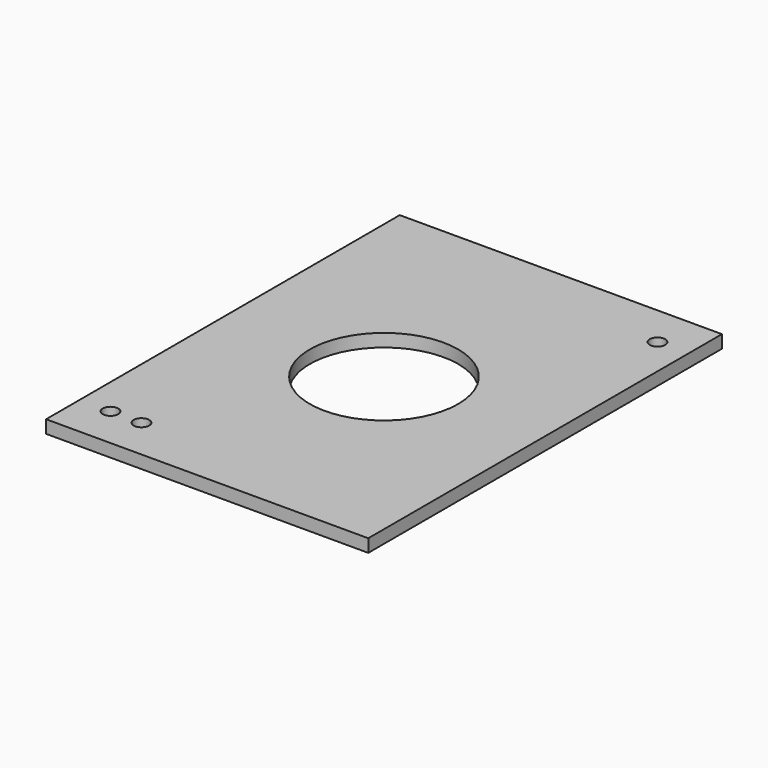
from build123d import *

# Parameters (mm, degrees)
F0_W     = 250
F0_H     = 343
F0_R     = 6
F0_R_2   = 57.5
F1_DEPTH = 10


with BuildPart() as f1:
    # F0 (on Top) → F1 (new body)
    with BuildSketch(Plane.XY):
        with Locations((125, 171.5)):
            Rectangle(F0_W, F0_H)
        with Locations((24, 32.5)):
            Circle(F0_R, mode=Mode.SUBTRACT)
        with Locations((48, 32.5)):
            Circle(F0_R, mode=Mode.SUBTRACT)
        with Locations((125, 171.5)):
            Circle(F0_R_2, mode=Mode.SUBTRACT)
        with Locations((226, 310.5)):
            Circle(F0_R, mode=Mode.SUBTRACT)
    extrude(amount=F1_DEPTH)


solid = f1.part
